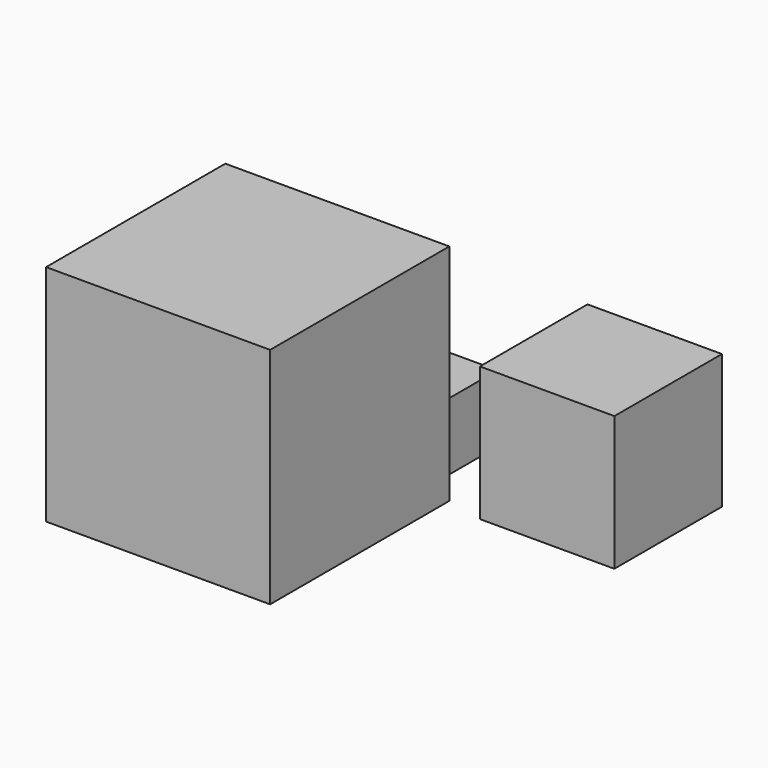
from build123d import *

# Parameters (mm, degrees)
F3_W     = 15
F3_H     = 15
F4_DEPTH = 15
F3_W_2   = 50
F3_H_2   = 50
F5_DEPTH = 50
F3_W_3   = 30
F3_H_3   = 30
F6_DEPTH = 30


with BuildPart() as f4:
    # F3 (on Top) → F4 (new body)
    with BuildSketch(Plane.XY):
        with Locations((-42.8186136484, 66.0421079397)):
            Rectangle(F3_W, F3_H)
    extrude(amount=F4_DEPTH)


with BuildPart() as f5:
    # F3 (on Top) → F5 (new body)
    with BuildSketch(Plane.XY):
        with Locations((-54.084739089, 27.3259932641)):
            Rectangle(F3_W_2, F3_H_2)
    extrude(amount=F5_DEPTH)


with BuildPart() as f6:
    # F3 (on Top) → F6 (new body)
    with BuildSketch(Plane.XY):
        with Locations((-5.6216021748, 65.2875288862)):
            Rectangle(F3_W_3, F3_H_3)
    extrude(amount=F6_DEPTH)


solid = Compound([f4.part, f5.part, f6.part])
